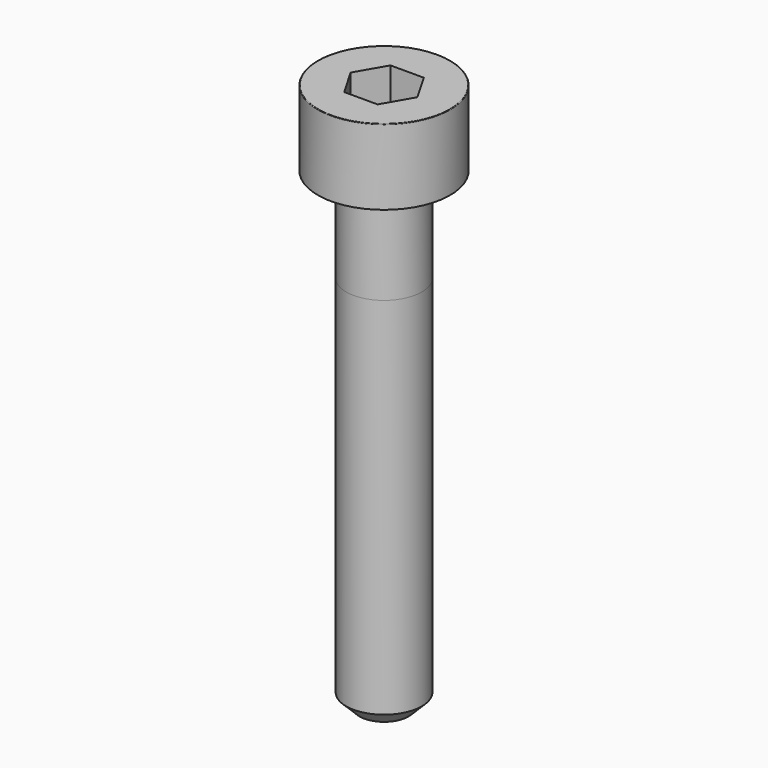
from build123d import *

# Parameters (mm, degrees)
POCKET_DEPTH = 3.06


with BuildPart() as part:
    # Sketch → Revolve (revolve)
    with BuildSketch(Plane.YZ):
        with BuildLine():
            Line((1.999, 0), (3.5, 0))
            Line((3.5, 0), (3.5, 3.97229))
            ThreePointArc((3.5, 3.97229), (3.491884, 3.991884), (3.47229, 4))
            Line((3.47229, 4), (0, 4))
            Line((0, -25), (0, 4))
            Line((1.3, -25), (0, -25))
            Line((2, -24.3), (1.3, -25))
            Line((2, -5), (2, -24.3))
            Line((1.999, 0), (2, -5))
        make_face()
    revolve(axis=Axis((0, 0, 0), (0, 0, 1)))

    # Sketch001 → Pocket (cut)
    with BuildSketch(Plane.XY.offset(4)):
        Polygon((1.766692, 0), (0.883346, 1.53), (-0.883346, 1.53), (-1.766692, 0), (-0.883346, -1.53), (0.883346, -1.53), align=None)
    extrude(amount=-POCKET_DEPTH, mode=Mode.SUBTRACT)


solid = part.part
